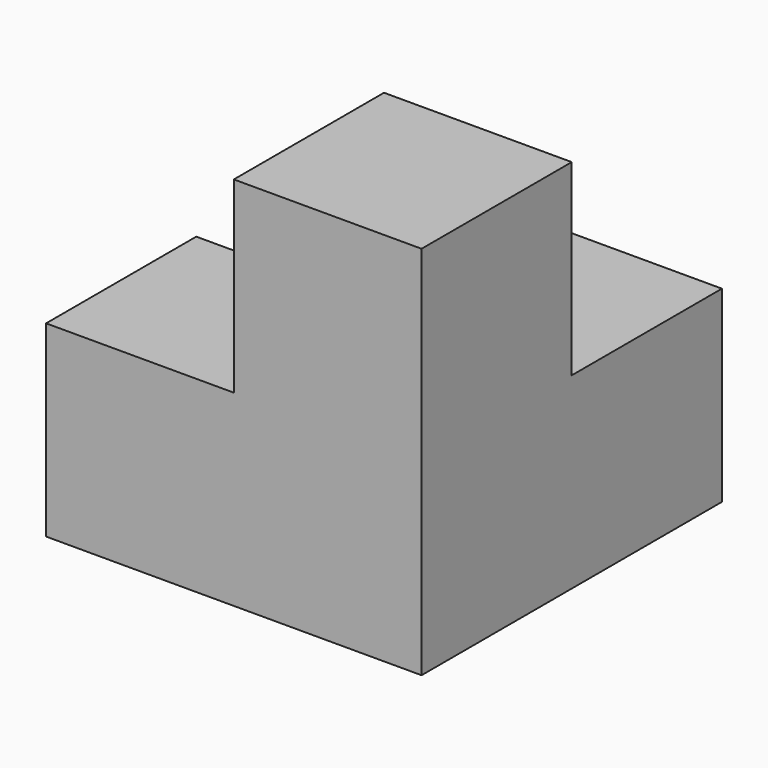
from build123d import *

# Parameters (mm, degrees)
BOX001_W     = 10
BOX001_H     = 10
BOX001_DEPTH = 10
BOX002_W     = 10
BOX002_H     = 10
BOX002_DEPTH = 20
BOX_W        = 10
BOX_H        = 10
BOX_DEPTH    = 10


with BuildPart() as cub001:
    # Box001 → Box001 (new body)
    with BuildSketch(Plane(origin=(0, 10, 0), x_dir=(1, 0, 0), z_dir=(0, 0, 1))):
        with Locations((5, 5)):
            Rectangle(BOX001_W, BOX001_H)
    extrude(amount=BOX001_DEPTH)


with BuildPart() as cub002:
    # Box002 → Box002 (new body)
    with BuildSketch(Plane.XY):
        with Locations((5, 5)):
            Rectangle(BOX002_W, BOX002_H)
    extrude(amount=BOX002_DEPTH)


with BuildPart() as fusion:
    # Box → Box (new body)
    with BuildSketch(Plane(origin=(-10, 0, 0), x_dir=(1, 0, 0), z_dir=(0, 0, 1))):
        with Locations((5, 5)):
            Rectangle(BOX_W, BOX_H)
    extrude(amount=BOX_DEPTH)

    # Fusion: union Cub001, Cub002
    add(cub001.part)
    add(cub002.part)


solid = fusion.part
